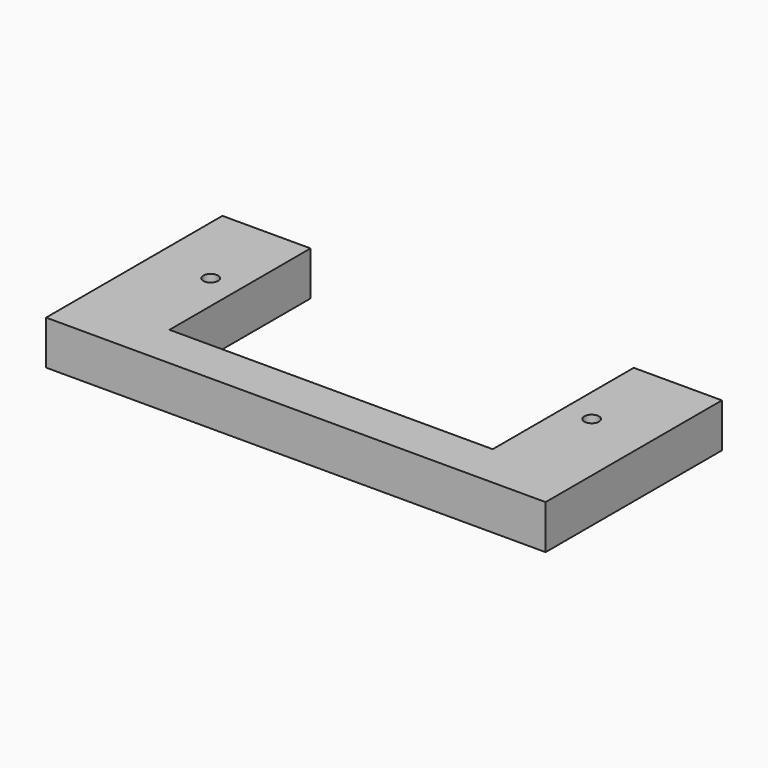
from build123d import *

# Parameters (mm, degrees)
F1_DEPTH = 3
F3_D     = 1
F5_D     = 1


with BuildPart() as f1:
    # F0 (on Top) → F1 (new body)
    with BuildSketch(Plane.XY):
        Polygon((6, 0), (0, 0), (0, -15), (34, -15), (34, 0), (28, 0), (28, -12), (6, -12), align=None)
    extrude(amount=F1_DEPTH)

    # F3 (through all)
    with Locations(Plane(origin=(0, 0, 0), x_dir=(1, 0, 0), z_dir=(0, 0, -1))):
        with Locations((4, 6)):
            Hole(F3_D / 2)

    # F5 (through all)
    with Locations(Plane(origin=(0, 0, 0), x_dir=(1, 0, 0), z_dir=(0, 0, -1))):
        with Locations((29.9340598285, 6)):
            Hole(F5_D / 2)


solid = f1.part
